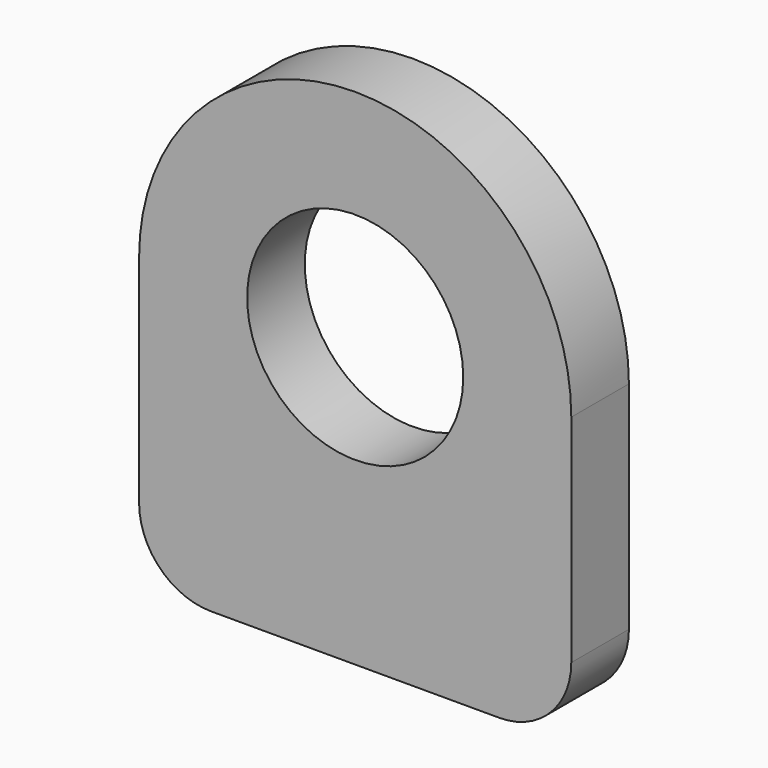
from build123d import *

# Parameters (mm, degrees)
F1_DEPTH = 6.35


with BuildPart() as f1:
    # F0 (on Front) → F1 (new body)
    with BuildSketch(Plane.XZ):
        with BuildLine():
            ThreePointArc((38.1, 25.4), (19.05, 44.45), (0, 25.4))
            Line((0, 25.4), (9.525, 25.4))
            ThreePointArc((9.525, 25.4), (19.05, 34.925), (28.575, 25.4))
            Line((28.575, 25.4), (38.1, 25.4))
        make_face()
        with BuildLine():
            ThreePointArc((0, 6.35), (1.859872, 1.859872), (6.35, 0))
            Line((6.35, 0), (31.75, 0))
            ThreePointArc((31.75, 0), (36.240128, 1.859872), (38.1, 6.35))
            Line((38.1, 6.35), (38.1, 25.4))
            Line((38.1, 25.4), (28.575, 25.4))
            ThreePointArc((28.575, 25.4), (19.05, 15.875), (9.525, 25.4))
            Line((9.525, 25.4), (0, 25.4))
            Line((0, 25.4), (0, 6.35))
        make_face()
    extrude(amount=F1_DEPTH)


solid = f1.part
